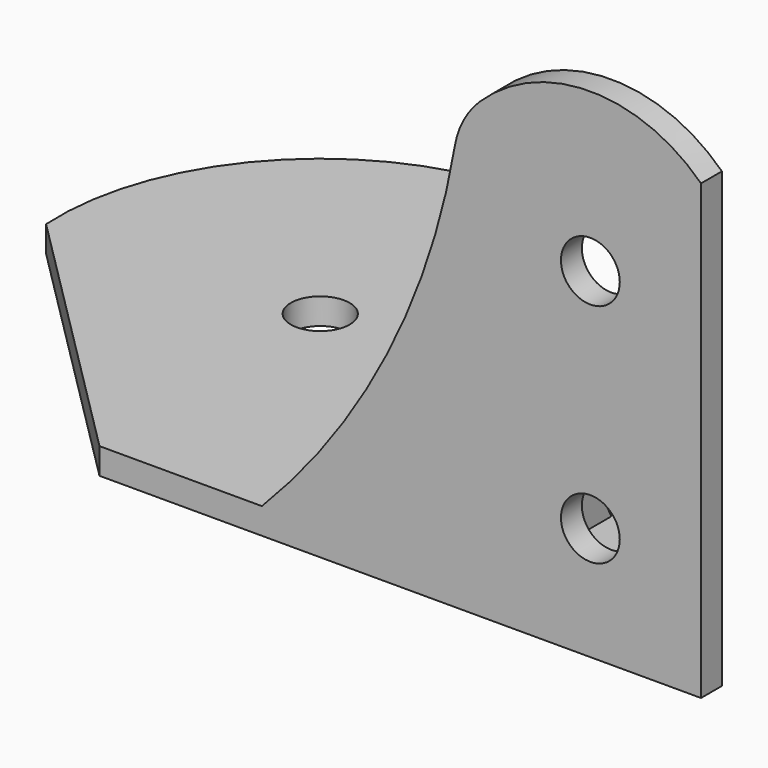
from build123d import *

# Parameters (mm, degrees)
SKETCH_R     = 3.375
PAD_DEPTH    = 3
SKETCH001_R  = 3.375
PAD001_DEPTH = 3
PAD002_DEPTH = 3
PAD003_DEPTH = 3
PAD004_DEPTH = 3


with BuildPart() as part:
    # Sketch → Pad (new body)
    with BuildSketch(Plane.XZ):
        with BuildLine():
            Line((-12.7, 0), (12.7, 0))
            Line((12.7, 0), (12.7, 52))
            ThreePointArc((12.7, 52), (0, 57.173882), (-12.7, 52))
            Line((-12.7, 52), (-12.7, 0))
        make_face()
        with Locations((0, 39)):
            Circle(SKETCH_R, mode=Mode.SUBTRACT)
        with Locations((0, 13)):
            Circle(SKETCH_R, mode=Mode.SUBTRACT)
    extrude(amount=-PAD_DEPTH)

    # Sketch001 → Pad001 (join)
    with BuildSketch(Plane.XY):
        with BuildLine():
            Line((-56.33961, 0), (-86.996465, 30.656854))
            ThreePointArc((-55.176659, 62.476659), (-78.231159, 53.711354), (-86.996465, 30.656854))
            Line((-55.176659, 62.476659), (4.3, 3))
            Line((4.3, 3), (-12.7, 3))
            Line((-12.7, 3), (-12.7, 0))
            Line((-56.33961, 0), (-12.7, 0))
        make_face()
        with Locations((-56.944426, 32.424621)):
            Circle(SKETCH001_R, mode=Mode.SUBTRACT)
    extrude(amount=PAD001_DEPTH)

    # Sketch002 → Pad002 (join)
    with BuildSketch(Plane.XZ):
        with BuildLine():
            Line((-12.7, 3), (-12.7, 52))
            ThreePointArc((-12.7, 52), (-14.569884, 49.487681), (-15.570964, 46.520182))
            ThreePointArc((-37.7, 3), (-23.321335, 23.074922), (-15.570964, 46.520182))
            Line((-12.7, 3), (-37.7, 3))
        make_face()
    extrude(amount=-PAD002_DEPTH)

    # Sketch003 → Pad003 (join)
    with BuildSketch(Plane.YZ.offset(-15)):
        Polygon((3, 3), (3, 33), (18, 3), align=None)
    extrude(amount=PAD003_DEPTH)

    # Sketch004 → Pad004 (join)
    with BuildSketch(Plane.YZ.offset(-25)):
        Polygon((3, 3), (3, 11), (11, 3), align=None)
    extrude(amount=-PAD004_DEPTH)


solid = part.part
